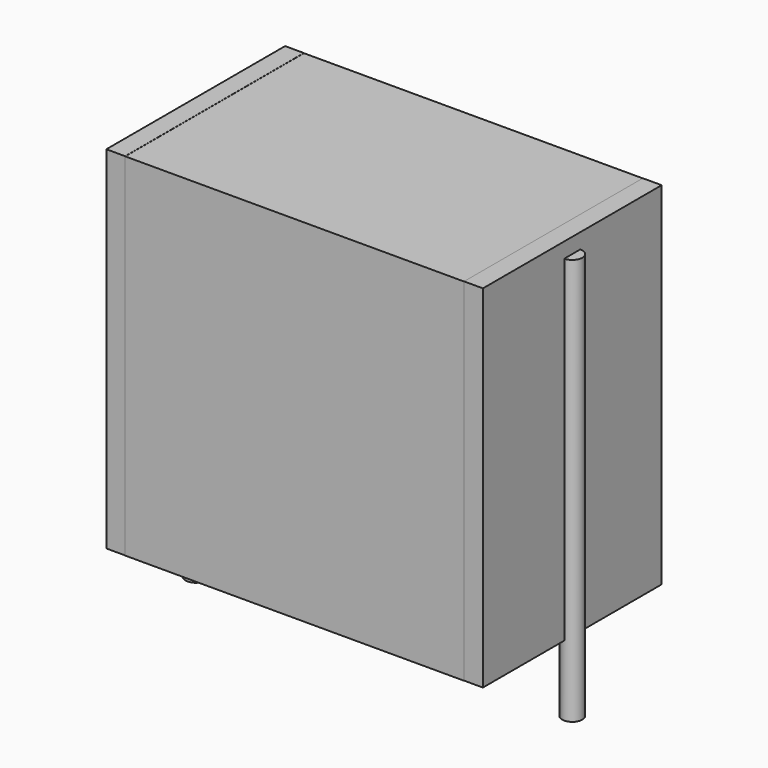
from build123d import *

# Parameters (mm, degrees)
SKETCH_W          = 13.5
SKETCH_H          = 8.9
PAD_DEPTH         = 14
SKETCH001_R       = 0.4
PAD001_DEPTH      = 13
PAD001_DEPTH_BACK = 3.2
SKETCH002_W       = 0.75
SKETCH002_H       = 8.9
PAD002_DEPTH      = 14


with BuildPart() as pad:
    # Sketch → Pad (new body)
    with BuildSketch(Plane.XY.offset(0.1)):
        with Locations((7.5, 0)):
            Rectangle(SKETCH_W, SKETCH_H)
    extrude(amount=PAD_DEPTH)


with BuildPart() as pad001:
    # Sketch001 → Pad001 (new body, two sides)
    with BuildSketch(Plane.XY.offset(0.5)) as pad001_sk:
        Circle(SKETCH001_R)
        with Locations((15, 0)):
            Circle(SKETCH001_R)
    extrude(amount=PAD001_DEPTH)
    extrude(pad001_sk.sketch, amount=-PAD001_DEPTH_BACK)


with BuildPart() as pad002:
    # Sketch002 → Pad002 (new body)
    with BuildSketch(Plane.XY.offset(0.105)):
        with Locations((0.375, 0)):
            Rectangle(SKETCH002_W, SKETCH002_H)
        with Locations((14.625, 0)):
            Rectangle(SKETCH002_W, SKETCH002_H)
    extrude(amount=PAD002_DEPTH)


solid = Compound([pad.part, pad001.part, pad002.part])
